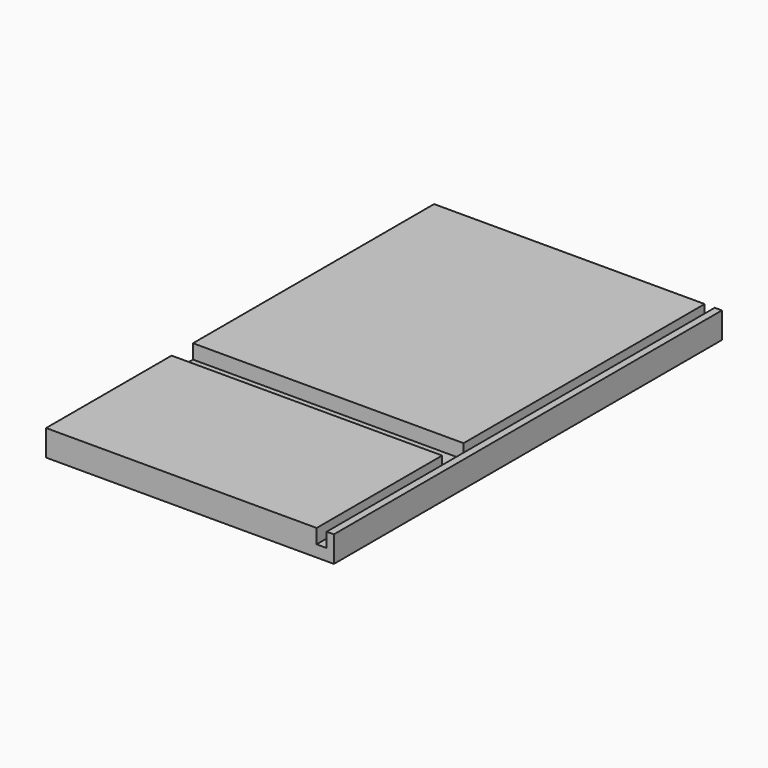
from build123d import *

# Parameters (mm, degrees)
F0_W      = 200
F0_H      = 337
F1_DEPTH  = 18.1
F2_W      = 25
F2_H      = 18.6
F2_W_2    = 150
F3_DEPTH  = 10
F5_DEPTH  = 25
F7_W      = 7
F7_H      = 109
F6_W      = 7
F6_H      = 209.4
F8_DEPTH  = 10
F9_W      = 5
F9_H      = 18.6
F10_DEPTH = 15.1


with BuildPart() as f1:
    # F0 (on Top) → F1 (new body)
    with BuildSketch(Plane.XY):
        Rectangle(F0_W, F0_H)
    extrude(amount=F1_DEPTH)

    # F2 (on face) → F3 (cut)
    with BuildSketch(Plane.XY.offset(18.1)):
        with Locations((-87.5, -50.2)):
            Rectangle(F2_W, F2_H)
        with Locations((-62.5, -50.2)):
            Rectangle(F2_W, F2_H)
        with Locations((25, -50.2)):
            Rectangle(F2_W_2, F2_H)
        with Locations((112.5, -50.2)):
            Rectangle(F2_W, F2_H)
        with Locations((137.5, -50.2)):
            Rectangle(F2_W, F2_H)
    extrude(amount=-F3_DEPTH, mode=Mode.SUBTRACT)

    # F4 (on face) → F5 (cut)
    with BuildSketch(Plane.XY.offset(8.1)):
        with BuildLine():
            Line((-52.5, -50.2), (-50, -50.2))
            Line((-50, -50.2), (-47.5, -50.2))
            ThreePointArc((-47.5, -50.2), (-50, -47.7), (-52.5, -50.2))
        make_face()
        with BuildLine():
            Line((-47.5, -50.2), (-50, -50.2))
            Line((-50, -50.2), (-52.5, -50.2))
            ThreePointArc((-52.5, -50.2), (-50, -52.7), (-47.5, -50.2))
        make_face()
        with BuildLine():
            ThreePointArc((52.5, -50.2), (50, -47.7), (47.5, -50.2))
            Line((47.5, -50.2), (50, -50.2))
            Line((50, -50.2), (52.5, -50.2))
        make_face()
        with BuildLine():
            Line((50, -50.2), (47.5, -50.2))
            ThreePointArc((47.5, -50.2), (50, -52.7), (52.5, -50.2))
            Line((52.5, -50.2), (50, -50.2))
        make_face()
    extrude(amount=-F5_DEPTH, mode=Mode.SUBTRACT)

    # F7 (on face) + F6 (on face) → F8 (cut)
    with BuildSketch(Plane.XY.offset(18.1)):
        with Locations((91.5, -114)):
            Rectangle(F7_W, F7_H)
    with BuildSketch(Plane.XY.offset(18.1)):
        with Locations((91.5, 63.8)):
            Rectangle(F6_W, F6_H)
    extrude(amount=-F8_DEPTH, mode=Mode.SUBTRACT)

    # F9 (on face) → F10 (join)
    with BuildSketch(Plane.XY.offset(18.1)):
        with Locations((97.5, -50.2)):
            Rectangle(F9_W, F9_H)
    extrude(amount=-F10_DEPTH)


solid = f1.part
